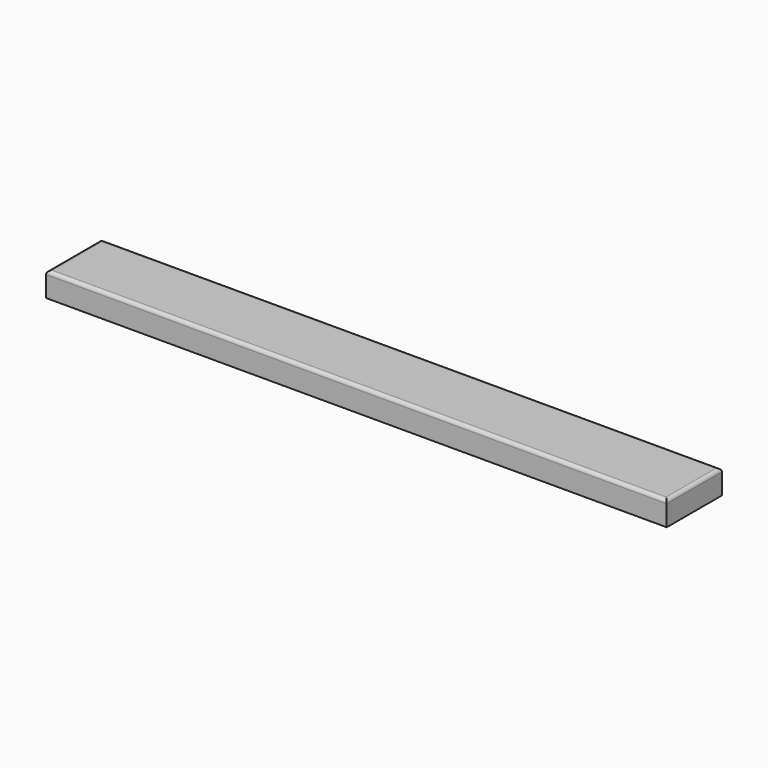
from build123d import *

# Parameters (mm, degrees)
F0_W     = 180
F0_H     = 20
F1_DEPTH = 7
F2_R     = 1


with BuildPart() as f1:
    # F0 (on Top) → F1 (new body)
    with BuildSketch(Plane.XY):
        with Locations((90, 10)):
            Rectangle(F0_W, F0_H)
    extrude(amount=-F1_DEPTH)

    # F2
    f2_edges = [f1.edges().sort_by_distance(p)[0] for p in [
        (90, 20, 0),
        (0, 10, 0),
        (90, 0, 0),
        (180, 10, 0),
    ]]
    fillet(f2_edges, radius=F2_R)


solid = f1.part
